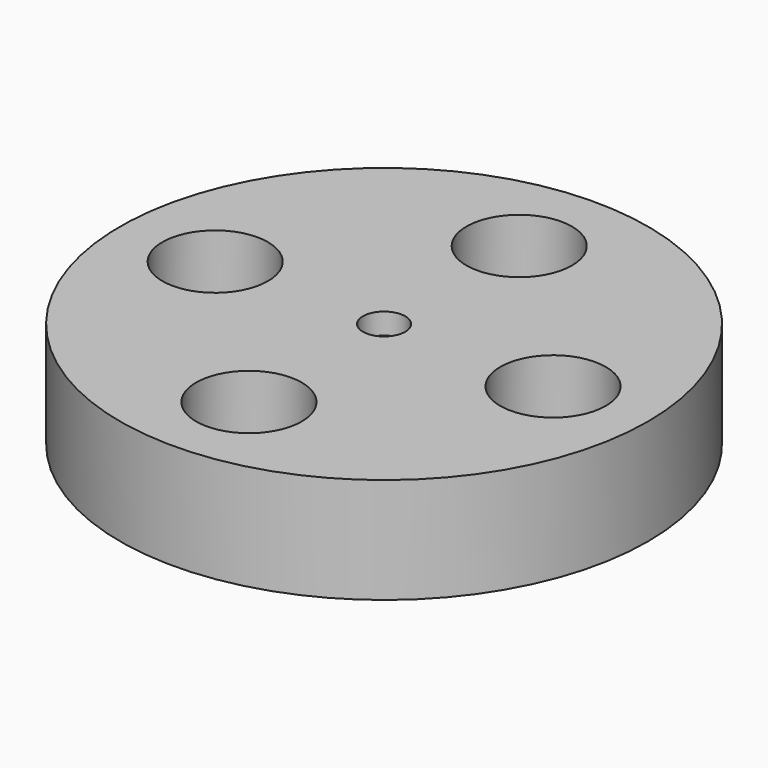
from build123d import *

# Parameters (mm, degrees)
F0_R     = 12.5
F0_R_2   = 2.5
F1_DEPTH = 5
F2_R     = 1
F3_DEPTH = 1
F4_R     = 1
F5_DEPTH = 1


with BuildPart() as f1:
    # F0 (on Top) → F1 (new body)
    with BuildSketch(Plane.XY):
        Circle(F0_R)
        with Locations((0, -8)):
            Circle(F0_R_2, mode=Mode.SUBTRACT)
        with Locations((-8, 0)):
            Circle(F0_R_2, mode=Mode.SUBTRACT)
        with Locations((8, 0)):
            Circle(F0_R_2, mode=Mode.SUBTRACT)
        with Locations((0, 8)):
            Circle(F0_R_2, mode=Mode.SUBTRACT)
    extrude(amount=F1_DEPTH)

    # F2 (on face) → F3 (cut)
    with BuildSketch(Plane.XY.offset(5)):
        Circle(F2_R)
    extrude(amount=-F3_DEPTH, mode=Mode.SUBTRACT)

    # F4 (on face) → F5 (cut)
    with BuildSketch(Plane(origin=(0, 0, 0), x_dir=(1, 0, 0), z_dir=(0, 0, -1))):
        Circle(F4_R)
    extrude(amount=-F5_DEPTH, mode=Mode.SUBTRACT)


solid = f1.part
